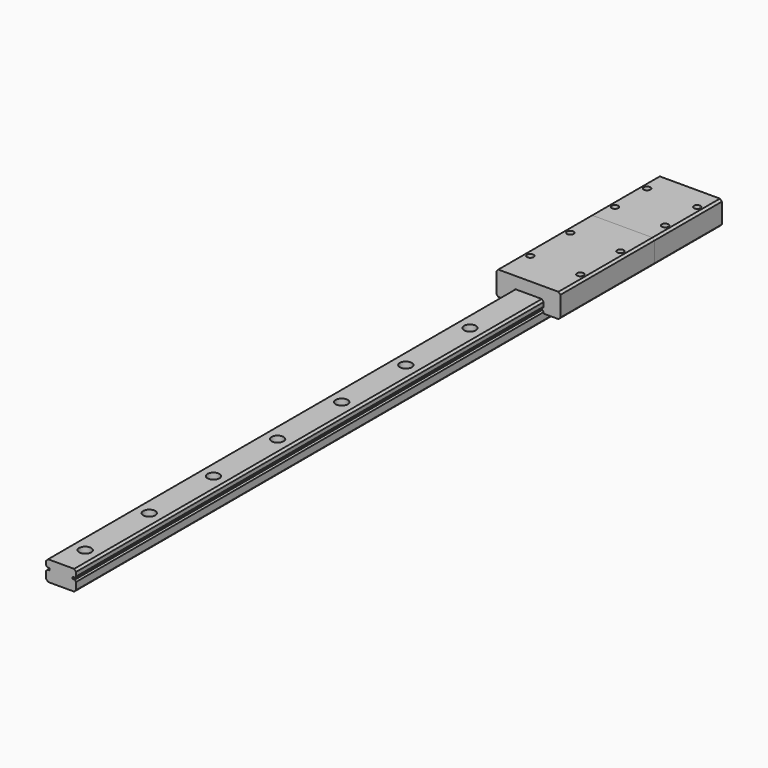
from build123d import *

# Parameters (mm, degrees)
F1_DEPTH  = 350
F2_R      = 1.75
F3_DEPTH  = 10.001
F4_R      = 3
F5_DEPTH  = 4.5
F7_DEPTH  = 58.6
F8_DEPTH  = 42.1
F11_D     = 3.3
F11_DEPTH = 4
F11_TIP   = 0.9914200214
F12_D     = 3.3
F12_DEPTH = 4
F12_TIP   = 0.9914200214


with BuildPart() as f1:
    # F0 (on Front) → F1 (new body)
    with BuildSketch(Plane.XZ):
        Polygon((-6.5, -5), (6.5, -5), (7.5, -4), (7.5, -0.4142135624), (6.7928932188, 0.2928932188), (5.7928932188, 0.2928932188), (5.7928932188, 1.2928932188), (6.7928932188, 1.2928932188), (7.5, 2), (7.5, 4), (6.5, 5), (-6.5, 5), (-7.5, 4), (-7.5, 2), (-6.7928932188, 1.2928932188), (-5.7928932188, 1.2928932188), (-5.7928932188, 0.2928932188), (-6.7928932188, 0.2928932188), (-7.5, -0.4142135624), (-7.5, -4), align=None)
    extrude(amount=F1_DEPTH)

    # F2 (on face) → F3 (cut, through all)
    with BuildSketch(Plane.XY.offset(5)):
        with Locations((0, -15)):
            Circle(F2_R)
        with Locations((0, -55)):
            Circle(F2_R)
        with Locations((0, -95)):
            Circle(F2_R)
        with Locations((0, -135)):
            Circle(F2_R)
        with Locations((0, -175)):
            Circle(F2_R)
        with Locations((0, -215)):
            Circle(F2_R)
        with Locations((0, -255)):
            Circle(F2_R)
        with Locations((0, -295)):
            Circle(F2_R)
        with Locations((0, -335)):
            Circle(F2_R)
    extrude(amount=-F3_DEPTH, mode=Mode.SUBTRACT)

    # F4 (on face) → F5 (cut)
    with BuildSketch(Plane.XY.offset(5)):
        with Locations((0, -15)):
            Circle(F4_R)
        with Locations((0, -55)):
            Circle(F4_R)
        with Locations((0, -95)):
            Circle(F4_R)
        with Locations((0, -135)):
            Circle(F4_R)
        with Locations((0, -175)):
            Circle(F4_R)
        with Locations((0, -215)):
            Circle(F4_R)
        with Locations((0, -255)):
            Circle(F4_R)
        with Locations((0, -295)):
            Circle(F4_R)
        with Locations((0, -335)):
            Circle(F4_R)
    extrude(amount=-F5_DEPTH, mode=Mode.SUBTRACT)


with BuildPart() as f7:
    # F6 (on Front) → F7 (new body)
    with BuildSketch(Plane.XZ):
        Polygon((-15, -1), (-7.65, -1), (-7.65, -0.352081528), (-6.7928932188, 0.5050252532), (-6.7928932188, 1.0807611845), (-7.65, 1.9378679656), (-7.65, 4.0621320344), (-6.5621320344, 5.15), (0, 5.15), (6.5621320344, 5.15), (7.65, 4.0621320344), (7.65, 1.9378679656), (6.7928932188, 1.0807611845), (6.7928932188, 0.5050252532), (7.65, -0.352081528), (7.65, -1), (15, -1), (16, 0), (16, 10), (15, 11), (0, 11), (-15, 11), (-16, 10), (-16, 0), align=None)
    extrude(amount=F7_DEPTH)

    # F11
    with Locations(Plane.XY.offset(11)):
        with Locations((-12.5, -16.8), (12.5, -16.8), (-12.5, -41.8), (12.5, -41.8)):
            Hole(F11_D / 2, depth=F11_DEPTH)
            with Locations((0, 0, -(F11_DEPTH + F11_TIP / 2))):  # 118° drill point
                Cone(0, F11_D / 2, F11_TIP, mode=Mode.SUBTRACT)


with BuildPart() as f8:
    # F6 (on Front) → F8 (new body)
    with BuildSketch(Plane.XZ):
        Polygon((-15, -1), (-7.65, -1), (-7.65, -0.352081528), (-6.7928932188, 0.5050252532), (-6.7928932188, 1.0807611845), (-7.65, 1.9378679656), (-7.65, 4.0621320344), (-6.5621320344, 5.15), (0, 5.15), (6.5621320344, 5.15), (7.65, 4.0621320344), (7.65, 1.9378679656), (6.7928932188, 1.0807611845), (6.7928932188, 0.5050252532), (7.65, -0.352081528), (7.65, -1), (15, -1), (16, 0), (16, 10), (15, 11), (0, 11), (-15, 11), (-16, 10), (-16, 0), align=None)
    extrude(amount=-F8_DEPTH)

    # F12
    with Locations(Plane.XY.offset(11)):
        with Locations((-12.5, 31.05), (12.5, 31.05), (12.5, 11.05), (-12.5, 11.05)):
            Hole(F12_D / 2, depth=F12_DEPTH)
            with Locations((0, 0, -(F12_DEPTH + F12_TIP / 2))):  # 118° drill point
                Cone(0, F12_D / 2, F12_TIP, mode=Mode.SUBTRACT)


solid = Compound([f1.part, f7.part, f8.part])
